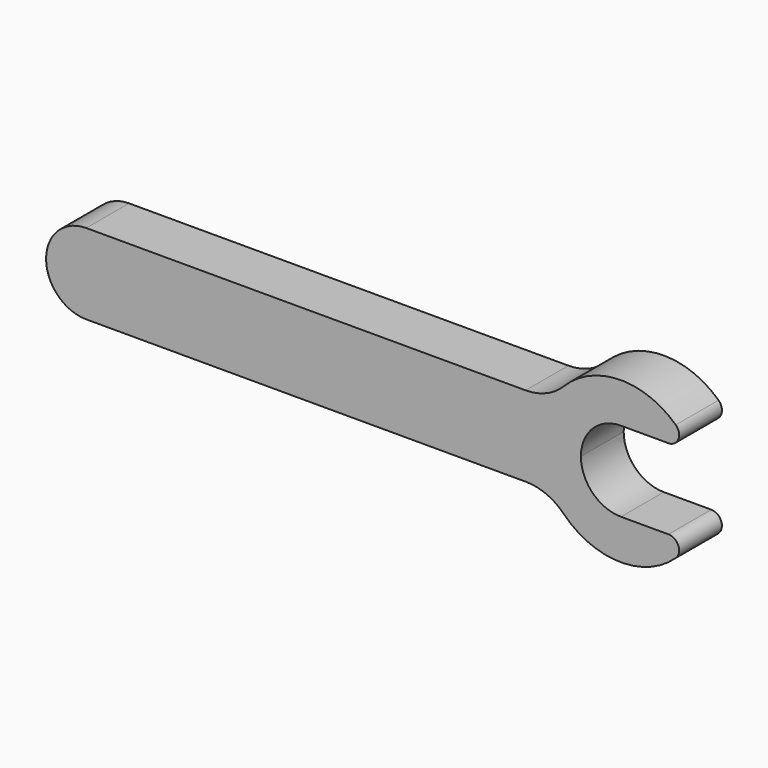
from build123d import *

# Parameters (mm, degrees)
F1_DEPTH = 6.35


with BuildPart() as f1:
    # F0 (on Front) → F1 (new body)
    with BuildSketch(Plane.XZ):
        with BuildLine():
            Line((52.175445, 4.7752), (0, 4.7752))
            ThreePointArc((0, 4.7752), (-4.7752, 0), (0, -4.7752))
            Line((0, -4.7752), (52.175445, -4.7752))
            ThreePointArc((52.175445, -4.7752), (54.631508, -5.269412), (56.705267, -6.67512))
            ThreePointArc((56.705267, -6.67512), (63.295562, -9.522806), (70.001999, -6.960577))
            ThreePointArc((70.001999, -6.960577), (70.316497, -5.566537), (69.135066, -4.7625))
            Line((69.135066, -4.7625), (63.5, -4.7625))
            ThreePointArc((63.5, -4.7625), (60.132404, -3.367596), (58.7375, 0))
            ThreePointArc((58.7375, 0), (60.132404, 3.367596), (63.5, 4.7625))
            Line((63.5, 4.7625), (69.135066, 4.7625))
            ThreePointArc((69.135066, 4.7625), (70.316497, 5.566537), (70.001999, 6.960577))
            ThreePointArc((70.001999, 6.960577), (63.295562, 9.522806), (56.705267, 6.67512))
            ThreePointArc((56.705267, 6.67512), (54.631508, 5.269412), (52.175445, 4.7752))
        make_face()
    extrude(amount=F1_DEPTH)


solid = f1.part
